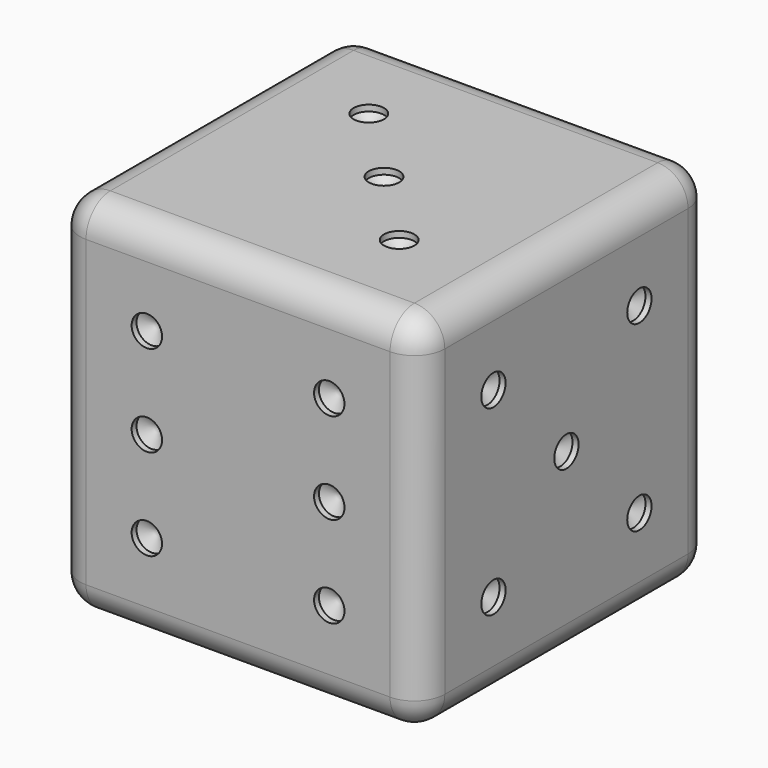
from build123d import *

# Parameters (mm, degrees)
F0_W      = 76.2
F0_H      = 76.2
F1_DEPTH  = 38.1
F2_R      = 6.35
F4_D      = 6.35
F4_DEPTH  = 1.27
F4_TIP    = 1.9077324654
F6_D      = 6.35
F6_DEPTH  = 1.27
F6_TIP    = 1.9077324654
F8_D      = 6.35
F8_DEPTH  = 1.27
F8_TIP    = 1.9077324654
F10_D     = 6.35
F10_DEPTH = 1.27
F10_TIP   = 1.9077324654
F12_D     = 6.35
F12_DEPTH = 1.27
F12_TIP   = 1.9077324654
F14_D     = 6.35
F14_DEPTH = 1.27
F14_TIP   = 1.9077324654


with BuildPart() as f1:
    # F0 (on Front) → F1 (new body, symmetric)
    with BuildSketch(Plane.XZ):
        Rectangle(F0_W, F0_H)
    extrude(amount=F1_DEPTH, both=True)

    # F2
    f2_edges = [f1.edges().sort_by_distance(p)[0] for p in [
        (0, -38.1, 38.1),
        (-38.1, 0, 38.1),
        (-38.1, -38.1, 0),
        (38.1, -38.1, 0),
        (38.1, 0, 38.1),
        (38.1, 38.1, 0),
        (38.1, 0, -38.1),
        (0, 38.1, -38.1),
        (0, -38.1, -38.1),
        (-38.1, 0, -38.1),
        (-38.1, 38.1, 0),
        (0, 38.1, 38.1),
    ]]
    fillet(f2_edges, radius=F2_R)

    # F4
    with Locations(Plane.XZ.offset(38.1)):
        with Locations((-19.05, 0), (-19.05, 19.05), (19.05, 19.05), (19.05, 0), (19.05, -19.05), (-19.05, -19.05)):
            Hole(F4_D / 2, depth=F4_DEPTH)
            with Locations((0, 0, -(F4_DEPTH + F4_TIP / 2))):  # 118° drill point
                Cone(0, F4_D / 2, F4_TIP, mode=Mode.SUBTRACT)

    # F6
    with Locations(Plane(origin=(0, 38.1, 0), x_dir=(-1, 0, 0), z_dir=(0, 1, 0))):
        with Locations((0, 0)):
            Hole(F6_D / 2, depth=F6_DEPTH)
            with Locations((0, 0, -(F6_DEPTH + F6_TIP / 2))):  # 118° drill point
                Cone(0, F6_D / 2, F6_TIP, mode=Mode.SUBTRACT)

    # F8
    with Locations(Plane.YZ.offset(38.1)):
        with Locations((-19.05, 19.05), (0, 0), (19.05, 19.05), (19.05, -19.05), (-19.05, -19.05)):
            Hole(F8_D / 2, depth=F8_DEPTH)
            with Locations((0, 0, -(F8_DEPTH + F8_TIP / 2))):  # 118° drill point
                Cone(0, F8_D / 2, F8_TIP, mode=Mode.SUBTRACT)

    # F10
    with Locations(Plane(origin=(-38.1, 0, 0), x_dir=(0, -1, 0), z_dir=(-1, 0, 0))):
        with Locations((-15.875, 15.875), (15.875, -15.875)):
            Hole(F10_D / 2, depth=F10_DEPTH)
            with Locations((0, 0, -(F10_DEPTH + F10_TIP / 2))):  # 118° drill point
                Cone(0, F10_D / 2, F10_TIP, mode=Mode.SUBTRACT)

    # F12
    with Locations(Plane.XY.offset(38.1)):
        with Locations((-15.875, 15.875), (0, 0), (15.875, -15.875)):
            Hole(F12_D / 2, depth=F12_DEPTH)
            with Locations((0, 0, -(F12_DEPTH + F12_TIP / 2))):  # 118° drill point
                Cone(0, F12_D / 2, F12_TIP, mode=Mode.SUBTRACT)

    # F14
    with Locations(Plane(origin=(0, 0, -38.1), x_dir=(1, 0, 0), z_dir=(0, 0, -1))):
        with Locations((-19.05, 19.05), (19.05, 19.05), (19.05, -19.05), (-19.05, -19.05)):
            Hole(F14_D / 2, depth=F14_DEPTH)
            with Locations((0, 0, -(F14_DEPTH + F14_TIP / 2))):  # 118° drill point
                Cone(0, F14_D / 2, F14_TIP, mode=Mode.SUBTRACT)


solid = f1.part
